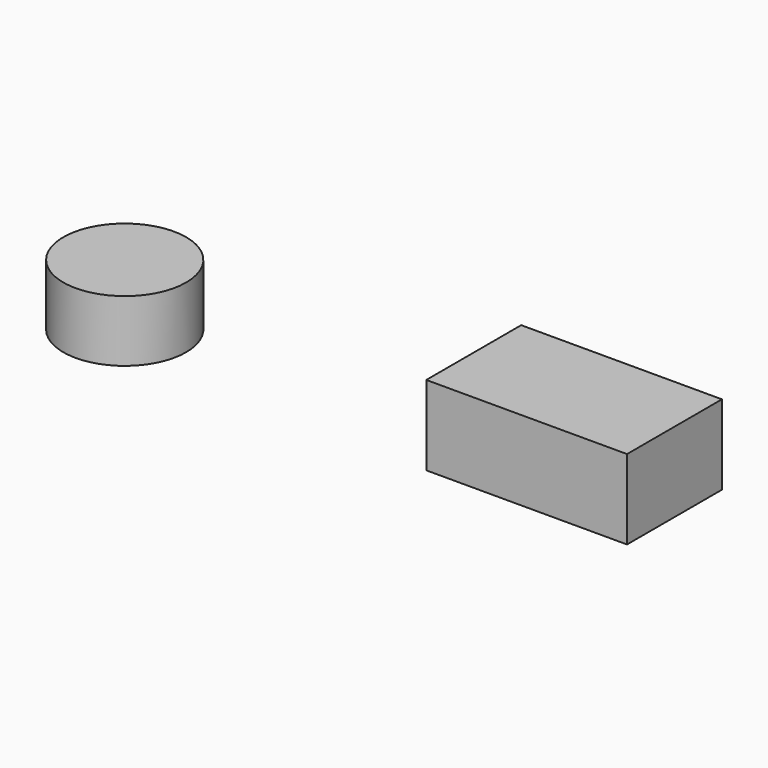
from build123d import *

# Parameters (mm, degrees)
F0_W     = 207.533106
F0_H     = 122.63321
F1_DEPTH = 82.296
F0_R     = 63.5
F2_DEPTH = 63.5


with BuildPart() as f1:
    # F0 (on Top) → F1 (new body)
    with BuildSketch(Plane.XY):
        with Locations((212.260927, 171.326202)):
            Rectangle(F0_W, F0_H)
    extrude(amount=F1_DEPTH)


with BuildPart() as f2:
    # F0 (on Top) → F2 (new body)
    with BuildSketch(Plane.XY):
        with Locations((-311.539739, 245.354399)):
            Circle(F0_R)
    extrude(amount=-F2_DEPTH)


solid = Compound([f1.part, f2.part])
